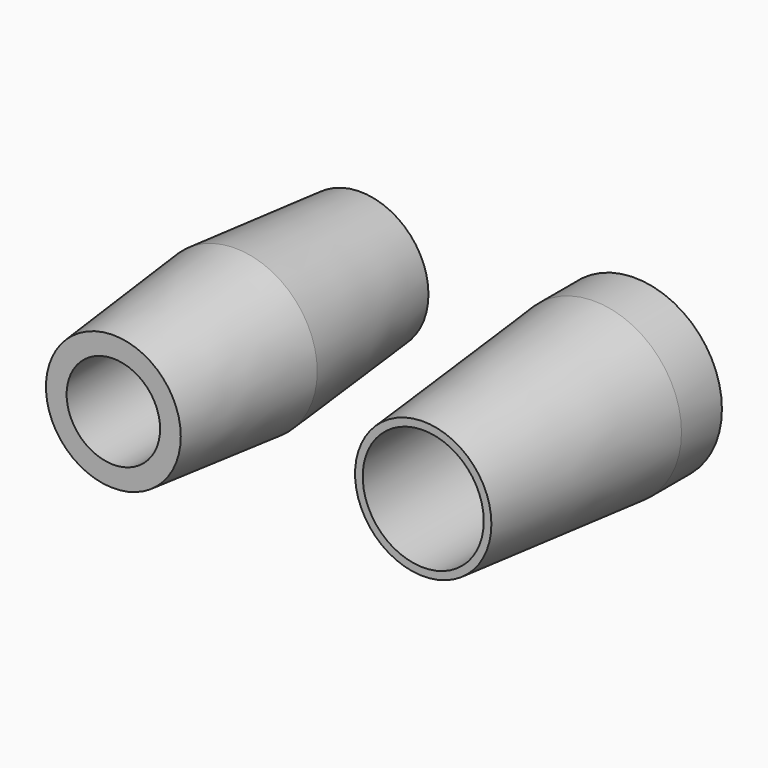
from build123d import *


with BuildPart() as f1:
    # F0 (on Top) → F1 (revolve)
    with BuildSketch(Plane.XY):
        Polygon((-22.189531, 64.738639), (-27.920457, 64.738639), (-27.920457, 22.397727), (-27.920457, -17.693188), (-22.394077, -17.693188), (-18.507713, 23.01136), align=None)
    revolve(axis=Axis((-40.39773, 14.625, 0), (0, -1, 0)))


with BuildPart() as f3:
    # F2 (on Top) → F3 (revolve)
    with BuildSketch(Plane.XY):
        Polygon((57.991561, 62.488638), (50.829552, 62.488638), (50.829552, -8.079548), (52.877926, -8.079548), (57.991561, 48.988637), align=None)
    revolve(axis=Axis((34.670454, 27.409091, 0), (0, -1, 0)))


solid = Compound([f1.part, f3.part])
